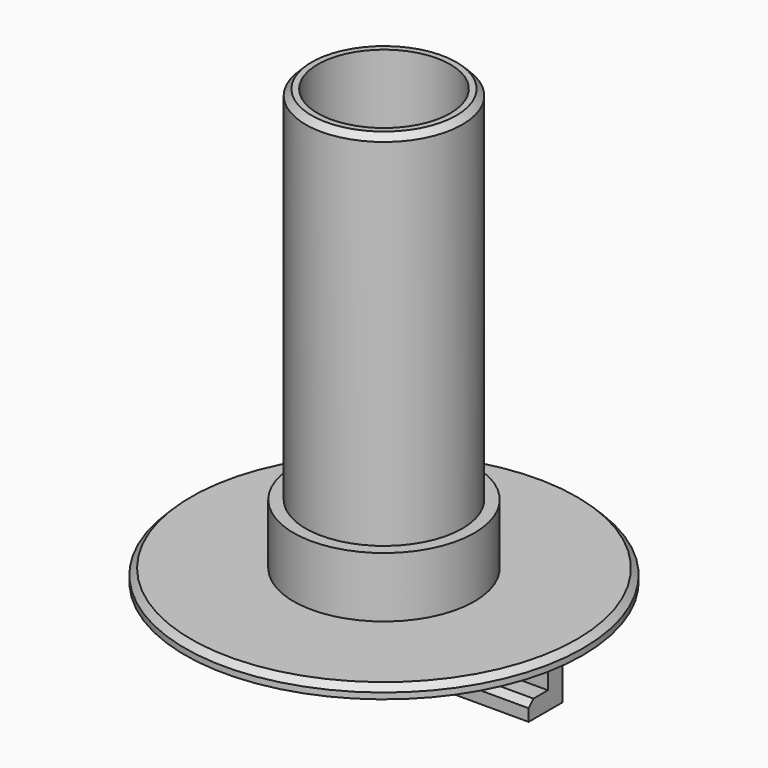
from build123d import *

# Parameters (mm, degrees)
CYLINDER003_R     = 11
CYLINDER003_DEPTH = 80
CYLINDER002_R     = 13
CYLINDER002_DEPTH = 67
CHAMFER001_SIZE   = 1
CYLINDER001_R     = 15
CYLINDER001_DEPTH = 11
CYLINDER_R        = 33
CYLINDER_DEPTH    = 2
CHAMFER002_SIZE   = 1
BOX_W             = 64
BOX_H             = 3
BOX_DEPTH         = 7
BOX001_W          = 64
BOX001_H          = 6
BOX001_DEPTH      = 3
CHAMFER_SIZE      = 1


with BuildPart() as cylinder003:
    # Cylinder003 → Cylinder003 (new body)
    with BuildSketch(Plane.XY.offset(-1)):
        Circle(CYLINDER003_R)
    extrude(amount=CYLINDER003_DEPTH)


with BuildPart() as chamfer001:
    # Cylinder002 → Cylinder002 (new body)
    with BuildSketch(Plane.XY.offset(10)):
        Circle(CYLINDER002_R)
    extrude(amount=CYLINDER002_DEPTH)

    # Chamfer001
    chamfer001_edges = [chamfer001.edges().sort_by_distance(p)[0] for p in [
        (-13, 0, 77),
    ]]
    chamfer(chamfer001_edges, length=CHAMFER001_SIZE)


with BuildPart() as chamfer001_1:
    # Chamfer001 placement: moved
    add(chamfer001.part.moved(Location((0, 0, -5))))


with BuildPart() as cylinder001:
    # Cylinder001 → Cylinder001 (new body)
    with BuildSketch(Plane.XY.offset(1)):
        Circle(CYLINDER001_R)
    extrude(amount=CYLINDER001_DEPTH)


with BuildPart() as chamfer002:
    # Cylinder → Cylinder (new body)
    with BuildSketch(Plane.XY):
        Circle(CYLINDER_R)
    extrude(amount=CYLINDER_DEPTH)

    # Fusion: union Cylinder001
    add(cylinder001.part)

    # Fusion001: union Chamfer001
    add(chamfer001_1.part)

    # Cut: cut Cylinder003
    add(cylinder003.part, mode=Mode.SUBTRACT)

    # Chamfer002
    chamfer002_edges = [chamfer002.edges().sort_by_distance(p)[0] for p in [
        (-33, 0, 2),
    ]]
    chamfer(chamfer002_edges, length=CHAMFER002_SIZE)


with BuildPart() as cube:
    # Box → Box (new body)
    with BuildSketch(Plane(origin=(-32, 0, -6), x_dir=(1, 0, 0), z_dir=(0, 0, 1))):
        with Locations((32, 1.5)):
            Rectangle(BOX_W, BOX_H)
    extrude(amount=BOX_DEPTH)


with BuildPart() as fusion003:
    # Box001 → Box001 (new body)
    with BuildSketch(Plane(origin=(-32, -4, -6), x_dir=(1, 0, 0), z_dir=(0, 0, 1))):
        with Locations((32, 3)):
            Rectangle(BOX001_W, BOX001_H)
    extrude(amount=BOX001_DEPTH)

    # Chamfer
    chamfer_edges = [fusion003.edges().sort_by_distance(p)[0] for p in [
        (0, -4, -3),
    ]]
    chamfer(chamfer_edges, length=CHAMFER_SIZE)

    # Fusion002: union Cube
    add(cube.part)


with BuildPart() as fusion003_1:
    # Fusion002 placement: moved
    add(fusion003.part.moved(Location((0, -6, 0))))

    # Fusion003: union Chamfer002
    add(chamfer002.part)


solid = fusion003_1.part
